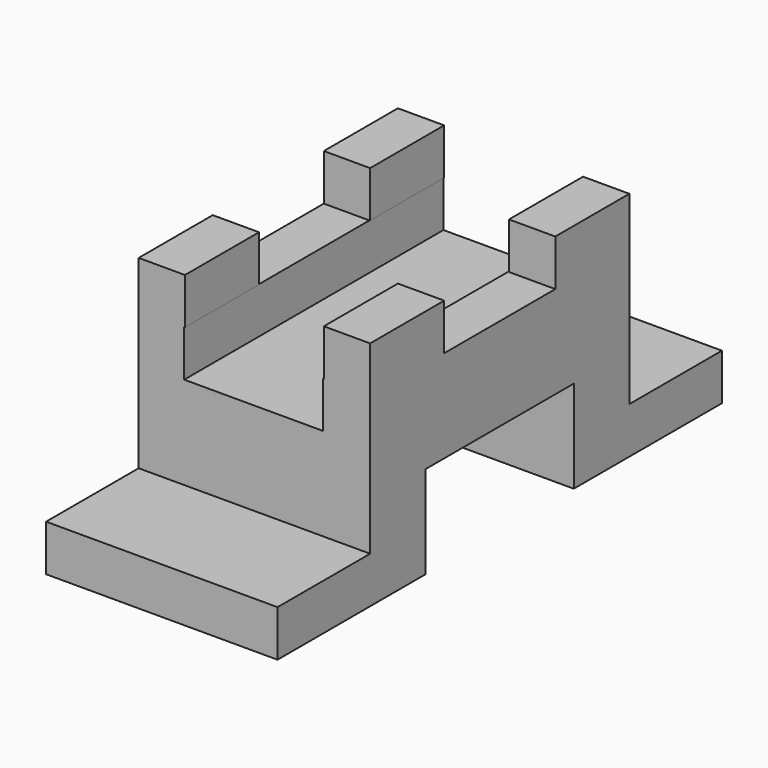
from build123d import *

# Parameters (mm, degrees)
F1_W      = 50
F1_H      = 120
F2_DEPTH  = 25
F3_W      = 40
F3_H      = 40
F4_DEPTH  = 50
F5_W      = 25
F5_H      = 40
F6_DEPTH  = 50
F7_W      = 25
F7_H      = 40
F8_DEPTH  = 50
F9_W      = 30
F9_H      = 10
F10_DEPTH = 50
F11_W     = 30
F11_H     = 10
F12_DEPTH = 70
F13_W     = 30
F13_H     = 10
F14_DEPTH = 70


with BuildPart() as f2:
    # F1 (on Top) → F2 (new body, symmetric)
    with BuildSketch(Plane.XY):
        Rectangle(F1_W, F1_H)
    extrude(amount=F2_DEPTH, both=True)

    # F3 (on face) → F4 (cut)
    with BuildSketch(Plane(origin=(-25, 0, 0), x_dir=(0, -1, 0), z_dir=(-1, 0, 0))):
        with Locations((0, -25)):
            Rectangle(F3_W, F3_H)
    extrude(amount=-F4_DEPTH, mode=Mode.SUBTRACT)

    # F5 (on face) → F6 (cut)
    with BuildSketch(Plane(origin=(-25, 0, 0), x_dir=(0, -1, 0), z_dir=(-1, 0, 0))):
        with Locations((-47.5, 5)):
            Rectangle(F5_W, F5_H)
    extrude(amount=-F6_DEPTH, mode=Mode.SUBTRACT)

    # F7 (on face) → F8 (cut)
    with BuildSketch(Plane(origin=(-25, 0, 0), x_dir=(0, -1, 0), z_dir=(-1, 0, 0))):
        with Locations((47.5, 5)):
            Rectangle(F7_W, F7_H)
    extrude(amount=-F8_DEPTH, mode=Mode.SUBTRACT)

    # F9 (on face) → F10 (cut)
    with BuildSketch(Plane(origin=(-25, 0, 0), x_dir=(0, -1, 0), z_dir=(-1, 0, 0))):
        with Locations((0, 20)):
            Rectangle(F9_W, F9_H)
    extrude(amount=-F10_DEPTH, mode=Mode.SUBTRACT)

    # F11 (on face) → F12 (cut)
    with BuildSketch(Plane.XZ.offset(35)):
        with Locations((0, 20)):
            Rectangle(F11_W, F11_H)
    extrude(amount=-F12_DEPTH, mode=Mode.SUBTRACT)

    # F13 (on face) → F14 (cut)
    with BuildSketch(Plane.XZ.offset(35)):
        with Locations((-0.1553255133, 10.0446071414)):
            Rectangle(F13_W, F13_H)
    extrude(amount=-F14_DEPTH, mode=Mode.SUBTRACT)


solid = f2.part
